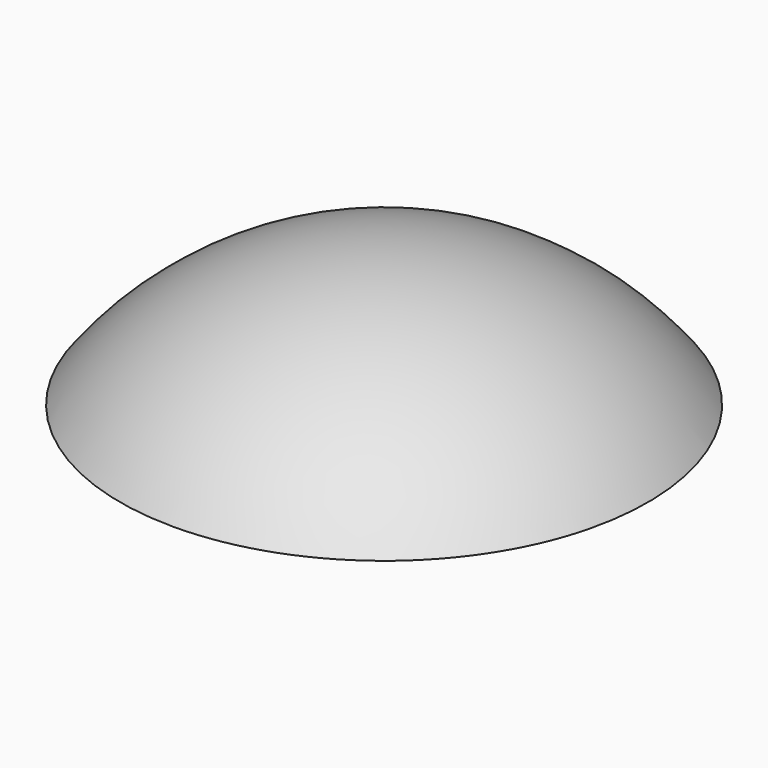
from build123d import *

# Parameters (mm, degrees)
F3_W     = 254
F3_H     = 254
F4_DEPTH = 217.12075


with BuildPart() as f1:
    # F0 (on Top) → F1 (revolve)
    with BuildSketch(Plane.XY):
        with BuildLine():
            ThreePointArc((81.2482075132, -97.610085421), (114.9946136873, -53.9002673733), (127, 0))
            ThreePointArc((127, 0), (53.9002673733, 114.9946136873), (-81.2482075132, 97.610085421))
            Line((-81.2482075132, 97.610085421), (0, 0))
            Line((0, 0), (81.2482075132, -97.610085421))
        make_face()
    revolve(axis=Axis((40.6241037566, -48.8050427105, 0), (0.6397496655, -0.7685833498, 0)))

    # F3 (on offset) → F4 (cut)
    with BuildSketch(Plane.XY.offset(76.2)):
        Rectangle(F3_W, F3_H)
    extrude(amount=-F4_DEPTH, mode=Mode.SUBTRACT)


solid = f1.part
